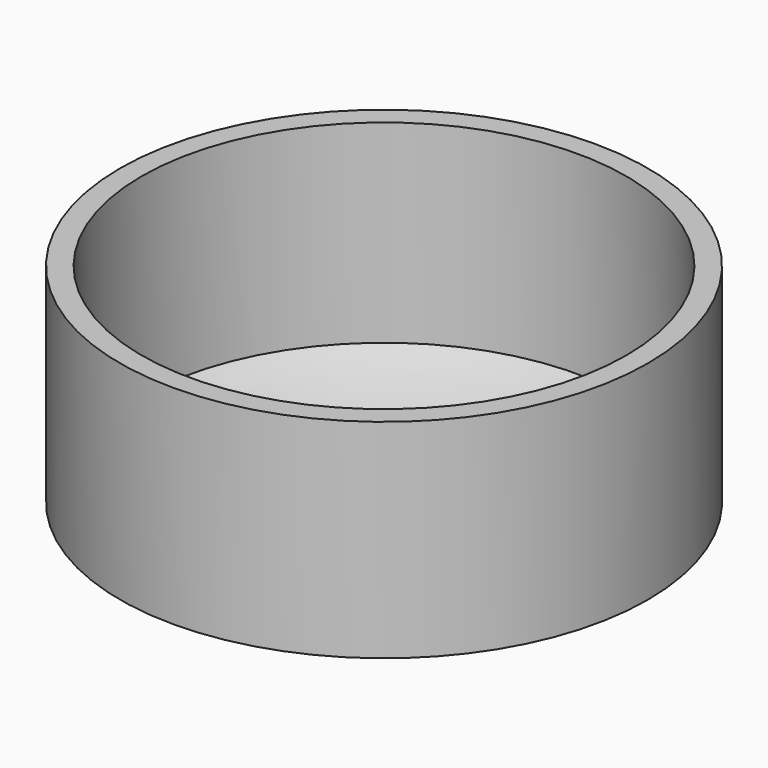
from build123d import *

# Parameters (mm, degrees)
F3_DEPTH      = 25
F5_DEPTH      = 25
F5_DEPTH_BACK = 25


with BuildPart() as f1:
    # F0 (on Front) → F1 (revolve)
    with BuildSketch(Plane.XZ):
        with BuildLine():
            Line((9, 3), (9, 0))
            ThreePointArc((9, 0), (4.589118, -1.345588), (0, -1.8))
            Line((0, -1.8), (0, -2.6))
            ThreePointArc((0, -2.6), (1.251675, -2.567609), (2.5, -2.470521))
            ThreePointArc((2.5, -2.470521), (6.226308, -1.785318), (9.8, -0.526907))
            Line((9.8, -0.526907), (9.8, 7.2))
            Line((9.8, 7.2), (9, 7.2))
            Line((9, 7.2), (9, 5))
            Line((9, 5), (9, 3))
        make_face()
        with BuildLine():
            ThreePointArc((2.5, -2.470521), (1.251675, -2.567609), (0, -2.6))
            Line((0, -2.6), (0, -3.970521))
            Line((0, -3.970521), (2.5, -3.970521))
            Line((2.5, -3.970521), (2.5, -2.470521))
        make_face()
    revolve(axis=Axis((0, 0, -3.285261), (0, 0, -1)))

    # F2 (on Top) → F3 (cut)
    with BuildSketch(Plane.XY):
        with BuildLine():
            add(Edge.make_bspline(
                [(0, -3.75), (-3.031089, -3.75), (-1.515544, -5.625), (0, -7.5), (1.515544, -5.625), (3.031089, -3.75), (0, -3.75)],
                knots=[4.712389, 4.712389, 4.712389, 6.806784, 6.806784, 8.901179, 8.901179, 10.995574, 10.995574, 10.995574], degree=2, weights=[1, 0.5, 1, 0.5, 1, 0.5, 1]))
        make_face()
        with BuildLine():
            add(Edge.make_bspline(
                [(3.75, 0), (3.75, -3.031089), (5.625, -1.515544), (7.5, 0), (5.625, 1.515544), (3.75, 3.031089), (3.75, 0)],
                knots=[4.712389, 4.712389, 4.712389, 6.806784, 6.806784, 8.901179, 8.901179, 10.995574, 10.995574, 10.995574], degree=2, weights=[1, 0.5, 1, 0.5, 1, 0.5, 1]))
        make_face()
        with BuildLine():
            add(Edge.make_bspline(
                [(0, 3.75), (3.031089, 3.75), (1.515544, 5.625), (0, 7.5), (-1.515544, 5.625), (-3.031089, 3.75), (0, 3.75)],
                knots=[4.712389, 4.712389, 4.712389, 6.806784, 6.806784, 8.901179, 8.901179, 10.995574, 10.995574, 10.995574], degree=2, weights=[1, 0.5, 1, 0.5, 1, 0.5, 1]))
        make_face()
        with BuildLine():
            add(Edge.make_bspline(
                [(-3.75, 0), (-3.75, 3.031089), (-5.625, 1.515544), (-7.5, 0), (-5.625, -1.515544), (-3.75, -3.031089), (-3.75, 0)],
                knots=[4.712389, 4.712389, 4.712389, 6.806784, 6.806784, 8.901179, 8.901179, 10.995574, 10.995574, 10.995574], degree=2, weights=[1, 0.5, 1, 0.5, 1, 0.5, 1]))
        make_face()
    extrude(amount=-F3_DEPTH, mode=Mode.SUBTRACT)

    # F4 (on Right) → F5 (cut, two sides)
    with BuildSketch(Plane.YZ) as f5_sk:
        with BuildLine():
            ThreePointArc((3.5, 11.2), (3.207107, 11.907107), (2.5, 12.2))
            Line((2.5, 12.2), (-2.5, 12.2))
            ThreePointArc((-2.5, 12.2), (-3.207107, 11.907107), (-3.5, 11.2))
            Line((-3.5, 11.2), (-3.5, 10.7))
            ThreePointArc((-3.5, 10.7), (-3.207107, 9.992893), (-2.5, 9.7))
            Line((-2.5, 9.7), (2.5, 9.7))
            ThreePointArc((2.5, 9.7), (3.207107, 9.992893), (3.5, 10.7))
            Line((3.5, 10.7), (3.5, 11.2))
        make_face()
    extrude(amount=-F5_DEPTH, mode=Mode.SUBTRACT)
    extrude(f5_sk.sketch, amount=-F5_DEPTH_BACK, mode=Mode.SUBTRACT)


solid = f1.part
